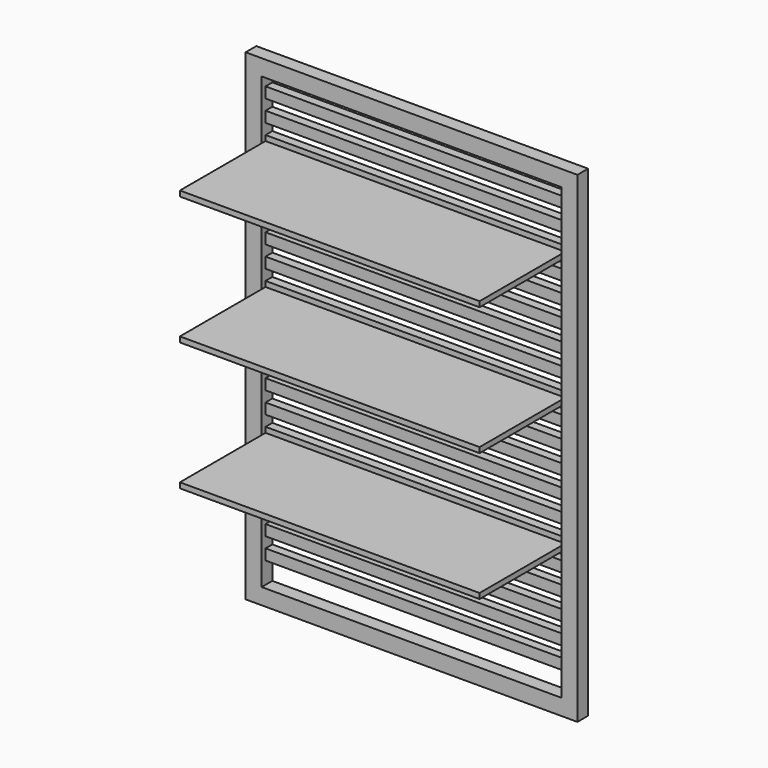
from build123d import *

# Parameters (mm, degrees)
F0_W     = 787.4
F0_H     = 1143
F0_W_2   = 711.2
F0_H_2   = 1066.8
F1_DEPTH = 31.75
F2_W     = 711.2
F2_H     = 25.4
F3_DEPTH = 20.32
F4_W     = 711.2
F4_H     = 12.7
F5_DEPTH = 254


with BuildPart() as f1:
    # F0 (on Front) → F1 (new body)
    with BuildSketch(Plane.XZ):
        Rectangle(F0_W, F0_H)
        Rectangle(F0_W_2, F0_H_2, mode=Mode.SUBTRACT)
    extrude(amount=F1_DEPTH)

    # F2 (on face) → F3 (join)
    with BuildSketch(Plane(origin=(0, 0, 0), x_dir=(-1, 0, 0), z_dir=(0, 1, 0))):
        with Locations((0, 495.3)):
            Rectangle(F2_W, F2_H)
        with Locations((0, 444.5)):
            Rectangle(F2_W, F2_H)
        with Locations((0, 393.7)):
            Rectangle(F2_W, F2_H)
        with Locations((0, 342.9)):
            Rectangle(F2_W, F2_H)
        with Locations((0, 292.1)):
            Rectangle(F2_W, F2_H)
        with Locations((0, 241.3)):
            Rectangle(F2_W, F2_H)
        with Locations((0, 190.5)):
            Rectangle(F2_W, F2_H)
        with Locations((0, 139.7)):
            Rectangle(F2_W, F2_H)
        with Locations((0, 88.9)):
            Rectangle(F2_W, F2_H)
        with Locations((0, 38.1)):
            Rectangle(F2_W, F2_H)
        with Locations((0, -12.7)):
            Rectangle(F2_W, F2_H)
        with Locations((0, -63.5)):
            Rectangle(F2_W, F2_H)
        with Locations((0, -114.3)):
            Rectangle(F2_W, F2_H)
        with Locations((0, -165.1)):
            Rectangle(F2_W, F2_H)
        with Locations((0, -215.9)):
            Rectangle(F2_W, F2_H)
        with Locations((0, -266.7)):
            Rectangle(F2_W, F2_H)
        with Locations((0, -317.5)):
            Rectangle(F2_W, F2_H)
        with Locations((0, -368.3)):
            Rectangle(F2_W, F2_H)
        with Locations((0, -419.1)):
            Rectangle(F2_W, F2_H)
        with Locations((0, -469.9)):
            Rectangle(F2_W, F2_H)
    extrude(amount=-F3_DEPTH)

    # F4 (on face) → F5 (join)
    with BuildSketch(Plane.XZ.offset(20.32)):
        with Locations((0, 387.35)):
            Rectangle(F4_W, F4_H)
        with Locations((0, 82.55)):
            Rectangle(F4_W, F4_H)
        with Locations((0, -222.25)):
            Rectangle(F4_W, F4_H)
    extrude(amount=F5_DEPTH)


solid = f1.part
